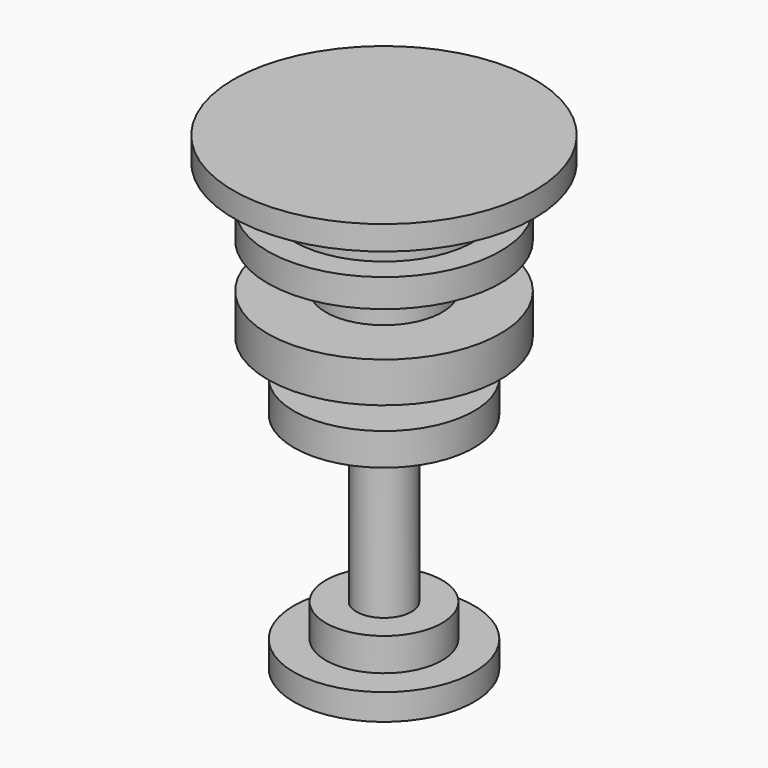
from build123d import *

# Parameters (mm, degrees)
F0_W   = 11.8117174134
F0_H   = 5.2878893912
F0_W_2 = 7.6244240627
F0_H_2 = 5.8166831732
F0_W_3 = 3.6154794507
F0_H_3 = 4.7591030598
F0_H_4 = 21.6046236455


with BuildPart() as f1:
    # F0 (on Front) → F1 (revolve)
    with BuildSketch(Plane.XZ):
        Polygon((0, 50.6880395114), (0, 53.8607798517), (-19.743559882, 53.8607798517), (-19.743559882, 50.6880395114), (-11.8117174134, 50.6880395114), align=None)
        with Locations((-5.9058587067, 48.0440948159)):
            Rectangle(F0_W, F0_H)
        Polygon((0, 41.6986197233), (0, 45.4001501203), (-11.8117174134, 45.4001501203), (-15.2488481253, 45.4001501203), (-15.2488481253, 41.6986197233), (-7.6244240627, 41.6986197233), align=None)
        with Locations((-3.8122120313, 38.7902781367)):
            Rectangle(F0_W_2, F0_H_2)
        Polygon((0, 30.594041571), (0, 35.8819365501), (-7.6244240627, 35.8819365501), (-15.2488481253, 35.8819365501), (-15.2488481253, 30.594041571), (-3.6154794507, 30.594041571), align=None)
        with Locations((-1.8077397253, 28.2144900411)):
            Rectangle(F0_W_3, F0_H_3)
        Polygon((0, 21.6046236455), (0, 25.8349385113), (-3.6154794507, 25.8349385113), (-11.8117174134, 25.8349385113), (-11.8117174134, 21.6046236455), (-3.6154794507, 21.6046236455), align=None)
        with Locations((-1.8077397253, 10.8023118228)):
            Rectangle(F0_W_3, F0_H_4)
        Polygon((0, -4.3060597964), (0, 0), (-3.6154794507, 0), (-7.6244240627, 0), (-7.6244240627, -4.3060597964), align=None)
        Polygon((0, -7.7431914397), (0, -4.3060597964), (-7.6244240627, -4.3060597964), (-11.8117174134, -4.3060597964), (-11.8117174134, -7.7431914397), align=None)
    revolve(axis=Axis((0, 0, 10.8023118228), (0, 0, -1)))


solid = f1.part
